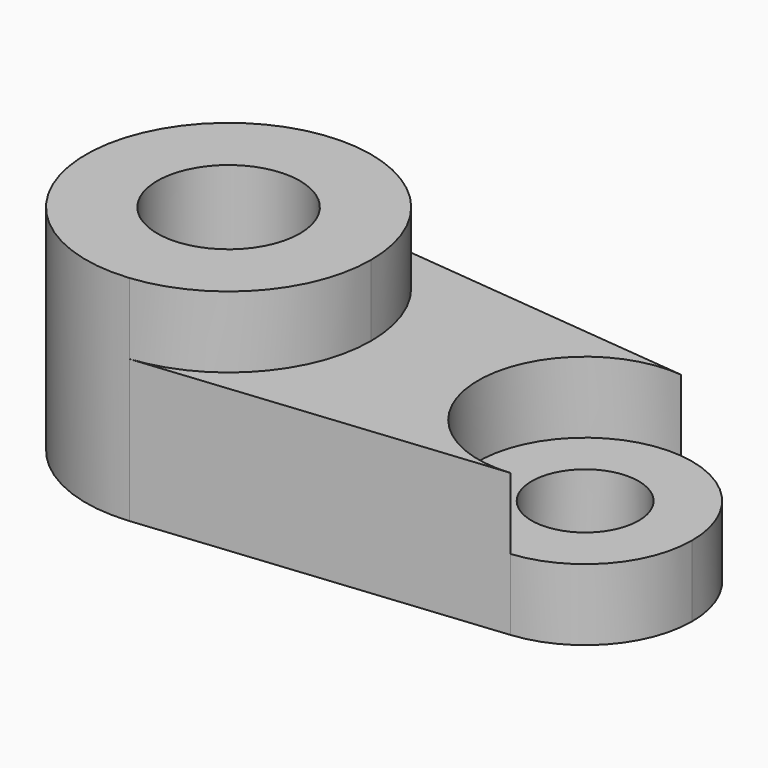
from build123d import *

# Parameters (mm, degrees)
F0_R     = 20
F1_DEPTH = 60
F2_DEPTH = 40
F0_R_2   = 15
F3_DEPTH = 20


with BuildPart() as f1:
    # F0 (on Top) → F1 (new body)
    with BuildSketch(Plane.XY):
        with BuildLine():
            ThreePointArc((-46, -39.799497), (-20.335206, -26.832816), (-10, 0))
            ThreePointArc((-10, 0), (-20.335206, 26.832816), (-46, 39.799497))
            ThreePointArc((-46, 39.799497), (-90, 0), (-46, -39.799497))
        make_face()
        with Locations((-50, 0)):
            Circle(F0_R, mode=Mode.SUBTRACT)
    extrude(amount=F1_DEPTH)

    # F0 (on Top) → F2 (join)
    with BuildSketch(Plane.XY):
        with BuildLine():
            ThreePointArc((-46, 39.799497), (-20.335206, 26.832816), (-10, 0))
            ThreePointArc((-10, 0), (-20.335206, -26.832816), (-46, -39.799497))
            Line((-46, -39.799497), (53, -29.849623))
            ThreePointArc((53, -29.849623), (20, 0), (53, 29.849623))
            Line((53, 29.849623), (-46, 39.799497))
        make_face()
    extrude(amount=F2_DEPTH)

    # F0 (on Top) → F3 (join)
    with BuildSketch(Plane.XY):
        with BuildLine():
            ThreePointArc((80, 0), (72.248595, 20.124612), (53, 29.849623))
            ThreePointArc((53, 29.849623), (20, 0), (53, -29.849623))
            ThreePointArc((53, -29.849623), (72.248595, -20.124612), (80, 0))
        make_face()
        with Locations((50, 0)):
            Circle(F0_R_2, mode=Mode.SUBTRACT)
    extrude(amount=F3_DEPTH)


solid = f1.part
